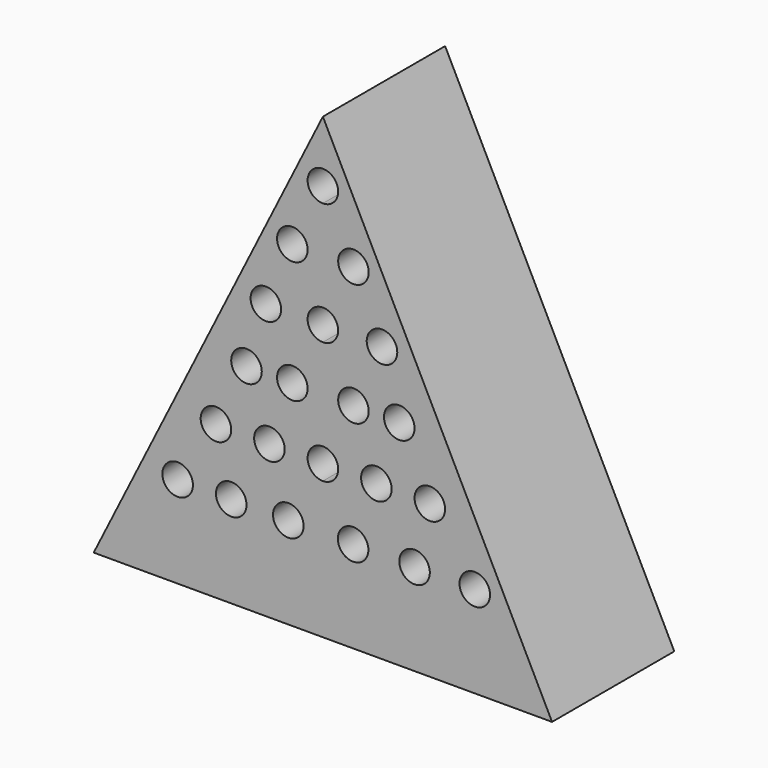
from build123d import *

# Parameters (mm, degrees)
F1_DEPTH = 25.4
F2_R     = 2.54
F3_DEPTH = 12.7


with BuildPart() as f1:
    # F0 (on Front) → F1 (new body)
    with BuildSketch(Plane.XZ):
        Polygon((5.74964, 36.402817), (-32.35036, -39.797183), (5.74964, -39.797183), (5.74964, 34.851611), align=None)
        Polygon((5.74964, 34.851611), (5.74964, -39.797183), (43.84964, -39.797183), (5.74964, 36.402817), align=None)
    extrude(amount=F1_DEPTH)

    # F2 (on face) → F3 (cut)
    with BuildSketch(Plane.XZ.offset(25.4)):
        with BuildLine():
            ThreePointArc((8.28964, 26.242817), (7.545691, 28.038868), (5.74964, 28.782817))
            Line((5.74964, 28.782817), (5.74964, 26.242817))
            Line((5.74964, 26.242817), (5.74964, 23.702817))
            ThreePointArc((5.74964, 23.702817), (7.545691, 24.446766), (8.28964, 26.242817))
        make_face()
        with BuildLine():
            ThreePointArc((8.28964, -14.397183), (7.545691, -12.601132), (5.74964, -11.857183))
            Line((5.74964, -11.857183), (5.74964, -14.397183))
            Line((5.74964, -14.397183), (5.74964, -16.937183))
            ThreePointArc((5.74964, -16.937183), (7.545691, -16.193234), (8.28964, -14.397183))
        make_face()
        with BuildLine():
            Line((5.74964, -14.397183), (5.74964, -11.857183))
            ThreePointArc((5.74964, -11.857183), (3.20964, -14.397183), (5.74964, -16.937183))
            Line((5.74964, -16.937183), (5.74964, -14.397183))
        make_face()
        with BuildLine():
            ThreePointArc((8.28964, 5.922817), (7.545691, 7.718868), (5.74964, 8.462817))
            Line((5.74964, 8.462817), (5.74964, 5.922817))
            Line((5.74964, 5.922817), (5.74964, 3.382817))
            ThreePointArc((5.74964, 3.382817), (7.545691, 4.126766), (8.28964, 5.922817))
        make_face()
        with BuildLine():
            Line((5.74964, 5.922817), (5.74964, 8.462817))
            ThreePointArc((5.74964, 8.462817), (3.20964, 5.922817), (5.74964, 3.382817))
            Line((5.74964, 3.382817), (5.74964, 5.922817))
        make_face()
        with BuildLine():
            Line((5.74964, 26.242817), (5.74964, 28.782817))
            ThreePointArc((5.74964, 28.782817), (3.20964, 26.242817), (5.74964, 23.702817))
            Line((5.74964, 23.702817), (5.74964, 26.242817))
        make_face()
        with Locations((0.66964, 16.082817)):
            Circle(F2_R)
        with Locations((10.82964, 16.082817)):
            Circle(F2_R)
        with Locations((-3.729841, 5.922817)):
            Circle(F2_R)
        with BuildLine():
            ThreePointArc((13.036175, 5.922817), (15.576175, 3.382817), (18.116175, 5.922817))
            ThreePointArc((18.116175, 5.922817), (15.576175, 8.462817), (13.036175, 5.922817))
        make_face()
        with Locations((0.66964, -4.237183)):
            Circle(F2_R)
        with Locations((-6.95036, -4.237183)):
            Circle(F2_R)
        with Locations((10.82964, -4.237183)):
            Circle(F2_R)
        with Locations((18.4496, -4.251403)):
            Circle(F2_R)
        with Locations((-3.140297, -14.379193)):
            Circle(F2_R)
        with Locations((-12.030297, -14.379193)):
            Circle(F2_R)
        with BuildLine():
            ThreePointArc((12.09964, -14.397183), (14.63964, -16.937183), (17.17964, -14.397183))
            ThreePointArc((17.17964, -14.397183), (14.63964, -11.857183), (12.09964, -14.397183))
        make_face()
        with BuildLine():
            ThreePointArc((20.988973, -14.455365), (23.528973, -16.995365), (26.068973, -14.455365))
            ThreePointArc((26.068973, -14.455365), (23.528973, -11.915365), (20.988973, -14.455365))
        make_face()
        with Locations((0, -24.557183)):
            Circle(F2_R)
        with Locations((-9.49036, -24.557183)):
            Circle(F2_R)
        with Locations((-18.397864, -24.557183)):
            Circle(F2_R)
        with Locations((10.773869, -24.557183)):
            Circle(F2_R)
        with Locations((20.98964, -24.557183)):
            Circle(F2_R)
        with Locations((31.00442, -24.557183)):
            Circle(F2_R)
    extrude(amount=-F3_DEPTH, mode=Mode.SUBTRACT)


solid = f1.part
